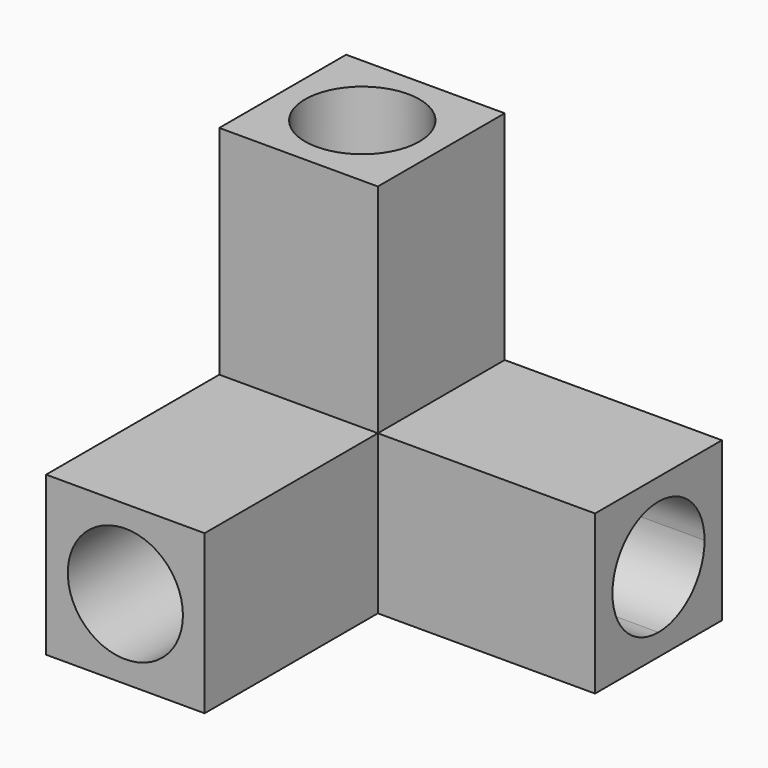
from build123d import *

# Parameters (mm, degrees)
F0_W     = 27
F0_H     = 15.9
F0_W_2   = 15.9
F0_H_2   = 27
F0_W_3   = 3
F0_H_3   = 3
F1_DEPTH = 21.9
F2_DEPTH = 51.8
F3_R     = 7.95
F6_DEPTH = 30
F7_DEPTH = 30
F4_R     = 7.9
F8_DEPTH = 30


with BuildPart() as f1:
    # F0 (on Front) → F1 (new body)
    with BuildSketch(Plane.XZ):
        with BuildLine():
            Line((-34.3576915575, 15.9), (-42.3076915575, 15.9))
            Line((-42.3076915575, 15.9), (-42.3076915575, 7.9499999931))
            ThreePointArc((-42.3076915575, 7.9499999931), (-39.9791904704, 13.571498908), (-34.3576915575, 15.9))
        make_face()
        with BuildLine():
            ThreePointArc((-34.3576915575, 15.9), (-39.9791904704, 13.571498908), (-42.3076915575, 7.9499999931))
            ThreePointArc((-42.3076915575, 7.9499999931), (-39.9791904655, 2.3285010871), (-34.3576915575, 0))
            ThreePointArc((-34.3576915575, 0), (-28.7361926471, 2.3285010896), (-26.4076915575, 7.95))
            ThreePointArc((-26.4076915575, 7.95), (-28.7361926471, 13.5714989104), (-34.3576915575, 15.9))
        make_face()
        Polygon((-42.3076915575, 18.9), (-42.3076915575, 45.9), (-26.4076915575, 45.9), (-26.4076915575, 18.9), (-23.4076915575, 18.9), (-23.4076915575, 48.9), (-45.3076915575, 48.9), (-45.3076915575, 18.9), align=None)
        with Locations((-9.9076915575, 7.95)):
            Rectangle(F0_W, F0_H)
        with Locations((-34.3576915575, 32.4)):
            Rectangle(F0_W_2, F0_H_2)
        with BuildLine():
            ThreePointArc((-34.3576915575, 0), (-39.9791904655, 2.3285010871), (-42.3076915575, 7.9499999931))
            Line((-42.3076915575, 7.9499999931), (-42.3076915575, 0))
            Line((-42.3076915575, 0), (-34.3576915575, 0))
        make_face()
        with BuildLine():
            Line((-26.4076915575, 0), (-26.4076915575, 7.95))
            ThreePointArc((-26.4076915575, 7.95), (-28.7361926471, 2.3285010896), (-34.3576915575, 0))
            Line((-34.3576915575, 0), (-26.4076915575, 0))
        make_face()
        with BuildLine():
            Line((-26.4076915575, 7.95), (-26.4076915575, 15.9))
            Line((-26.4076915575, 15.9), (-34.3576915575, 15.9))
            ThreePointArc((-34.3576915575, 15.9), (-28.7361926471, 13.5714989104), (-26.4076915575, 7.95))
        make_face()
        Polygon((6.5923084425, 18.9), (-23.4076915575, 18.9), (-23.4076915575, 15.9), (3.5923084425, 15.9), (3.5923084425, 0), (-23.4076915575, 0), (-23.4076915575, -3), (6.5923084425, -3), align=None)
        Polygon((-26.4076915575, 18.9), (-42.3076915575, 18.9), (-42.3076915575, 15.9), (-34.3576915575, 15.9), (-26.4076915575, 15.9), align=None)
        Polygon((-23.4076915575, 15.9), (-26.4076915575, 15.9), (-26.4076915575, 7.95), (-26.4076915575, 0), (-23.4076915575, 0), align=None)
        Polygon((-42.3076915575, 15.9), (-42.3076915575, 18.9), (-45.3076915575, 18.9), (-45.3076915575, -3), (-23.4076915575, -3), (-23.4076915575, 0), (-26.4076915575, 0), (-34.3576915575, 0), (-42.3076915575, 0), (-42.3076915575, 7.9499999931), align=None)
        with Locations((-24.9076915575, 17.4)):
            Rectangle(F0_W_3, F0_H_3)
    extrude(amount=F1_DEPTH)

    # F0 (on Front) → F2 (join)
    with BuildSketch(Plane.XZ):
        Polygon((-42.3076915575, 15.9), (-42.3076915575, 18.9), (-45.3076915575, 18.9), (-45.3076915575, -3), (-23.4076915575, -3), (-23.4076915575, 0), (-26.4076915575, 0), (-34.3576915575, 0), (-42.3076915575, 0), (-42.3076915575, 7.9499999931), align=None)
        with BuildLine():
            ThreePointArc((-34.3576915575, 15.9), (-39.9791904704, 13.571498908), (-42.3076915575, 7.9499999931))
            ThreePointArc((-42.3076915575, 7.9499999931), (-39.9791904655, 2.3285010871), (-34.3576915575, 0))
            ThreePointArc((-34.3576915575, 0), (-28.7361926471, 2.3285010896), (-26.4076915575, 7.95))
            ThreePointArc((-26.4076915575, 7.95), (-28.7361926471, 13.5714989104), (-34.3576915575, 15.9))
        make_face()
        Polygon((-26.4076915575, 18.9), (-42.3076915575, 18.9), (-42.3076915575, 15.9), (-34.3576915575, 15.9), (-26.4076915575, 15.9), align=None)
        Polygon((-23.4076915575, 15.9), (-26.4076915575, 15.9), (-26.4076915575, 7.95), (-26.4076915575, 0), (-23.4076915575, 0), align=None)
        with Locations((-24.9076915575, 17.4)):
            Rectangle(F0_W_3, F0_H_3)
        with BuildLine():
            Line((-26.4076915575, 7.95), (-26.4076915575, 15.9))
            Line((-26.4076915575, 15.9), (-34.3576915575, 15.9))
            ThreePointArc((-34.3576915575, 15.9), (-28.7361926471, 13.5714989104), (-26.4076915575, 7.95))
        make_face()
        with BuildLine():
            Line((-34.3576915575, 15.9), (-42.3076915575, 15.9))
            Line((-42.3076915575, 15.9), (-42.3076915575, 7.9499999931))
            ThreePointArc((-42.3076915575, 7.9499999931), (-39.9791904704, 13.571498908), (-34.3576915575, 15.9))
        make_face()
        with BuildLine():
            ThreePointArc((-34.3576915575, 0), (-39.9791904655, 2.3285010871), (-42.3076915575, 7.9499999931))
            Line((-42.3076915575, 7.9499999931), (-42.3076915575, 0))
            Line((-42.3076915575, 0), (-34.3576915575, 0))
        make_face()
        with BuildLine():
            Line((-26.4076915575, 0), (-26.4076915575, 7.95))
            ThreePointArc((-26.4076915575, 7.95), (-28.7361926471, 2.3285010896), (-34.3576915575, 0))
            Line((-34.3576915575, 0), (-26.4076915575, 0))
        make_face()
    extrude(amount=F2_DEPTH)

    # F3 (on face) → F6 (cut)
    with BuildSketch(Plane.XZ.offset(51.8)):
        with Locations((-34.3576915575, 7.95)):
            Circle(F3_R)
    extrude(amount=-F6_DEPTH, mode=Mode.SUBTRACT)

    # F5 (on face) → F7 (cut)
    with BuildSketch(Plane.YZ.offset(6.5923084425)):
        with BuildLine():
            ThreePointArc((-3, 7.95), (-5.3285010896, 13.5714989104), (-10.95, 15.9))
            ThreePointArc((-10.95, 15.9), (-16.5714989104, 13.5714989104), (-18.9, 7.95))
            ThreePointArc((-18.9, 7.95), (-16.5714989104, 2.3285010896), (-10.95, 0))
            ThreePointArc((-10.95, 0), (-5.3285010896, 2.3285010896), (-3, 7.95))
        make_face()
    extrude(amount=-F7_DEPTH, mode=Mode.SUBTRACT)

    # F4 (on face) → F8 (cut)
    with BuildSketch(Plane.XY.offset(48.9)):
        with Locations((-34.3576915575, -10.9)):
            Circle(F4_R)
    extrude(amount=-F8_DEPTH, mode=Mode.SUBTRACT)


solid = f1.part
